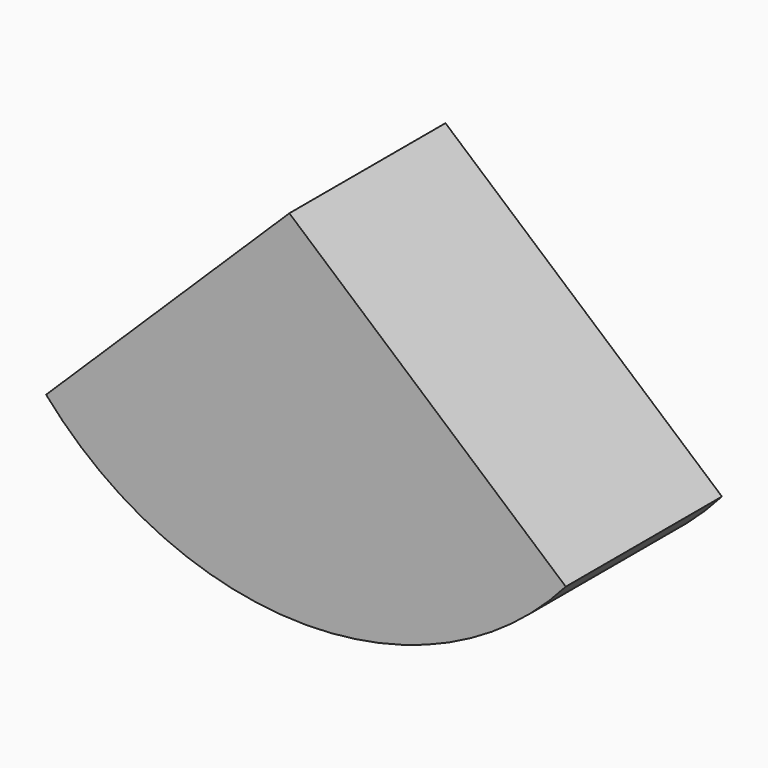
from build123d import *

# Parameters (mm, degrees)
F1_DEPTH = 12.5


with BuildPart() as f1:
    # F0 (on Front) → F1 (new body, symmetric)
    with BuildSketch(Plane.XZ):
        with BuildLine():
            Line((35.409175, 0), (0, 30.593527))
            Line((0, 30.593527), (-31.160073, 0))
            ThreePointArc((-31.160073, 0), (2.124551, -15.133785), (35.409175, 0))
        make_face()
    extrude(amount=F1_DEPTH, both=True)


solid = f1.part
